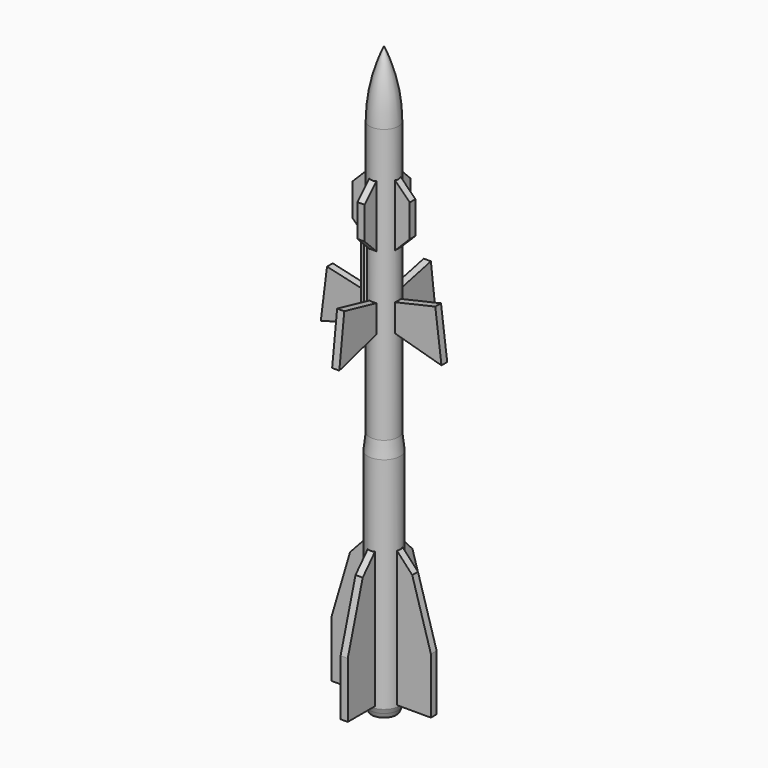
from build123d import *

# Parameters (mm, degrees)
F4_DEPTH = 0.2
F5_COUNT = 4
F8_DEPTH = 6.0416666667
F9_SIZE  = 0.1


with BuildPart() as f2:
    # F1 (on Front) → F2 (revolve)
    with BuildSketch(Plane.XZ):
        Polygon((0.7986111111, 13.6805555556), (0.7986111111, 0.2604166667), (0.9027777778, 0.5208333333), (0.9027777778, 12.7777777778), align=None)
        with BuildLine():
            Line((0, 32.6388888889), (0, 0))
            Line((0, 0), (0.6944444444, 0))
            Line((0.6944444444, 0), (0.7986111111, 0.2604166667))
            Line((0.7986111111, 0.2604166667), (0.7986111111, 13.6805555556))
            Line((0.7986111111, 13.6805555556), (0.7986111111, 28.9583333333))
            ThreePointArc((0.7986111111, 28.9583333333), (0.5966621225, 30.8414337624), (0, 32.6388888889))
        make_face()
    revolve(axis=Axis((0, 0, 16.3194444444), (0, 0, 1)))

    # F3 (on Front) → F4 (join, symmetric)
    with BuildSketch(Plane.XZ):
        Polygon((0, 27.1527777778), (0, 0.625), (2.7777777778, 0.625), (2.7777777778, 3.75), (1.7361111111, 7.2916666667), (0.4, 8.7391203704), (0.4, 18.9610719875), (3.3680555556, 18.125), (3.0208333333, 20.9027777778), (0.4, 20.3012750455), (0.4, 22.5527777778), (1.5972222222, 23.75), (1.5972222222, 25.5555555556), align=None)
    extrude(amount=F4_DEPTH, both=True)

    # F5: F2 ×4 about axis
    f5_axis = Axis((0, 0, 13.6805555556), (0, 0, 1))


with BuildPart() as f2_1:
    add(f2.part)
    for i in range(1, F5_COUNT):
        add(f2.part.rotate(f5_axis, i * 360 / F5_COUNT))

    # F7 (on offset) → F8 (join)
    with BuildSketch(Plane.XY.offset(18.75)):
        with BuildLine():
            Line((-0.4822828892, -0.777240922), (-0.0760130179, -0.3709710507))
            Line((-0.0760130179, -0.3709710507), (-0.3709710507, -0.0760130179))
            Line((-0.3709710507, -0.0760130179), (-0.777240922, -0.4822828892))
            ThreePointArc((-0.777240922, -0.4822828892), (-0.7090709667, -0.7090709667), (-0.4822828892, -0.777240922))
        make_face()
    extrude(amount=F8_DEPTH)

    # F9
    f9_edges = [f2_1.edges().sort_by_distance(p)[0] for p in [
        (-0.564703, -0.564703, 24.791667),
        (-0.564703, -0.564703, 18.75),
    ]]
    chamfer(f9_edges, length=F9_SIZE)


solid = f2_1.part
